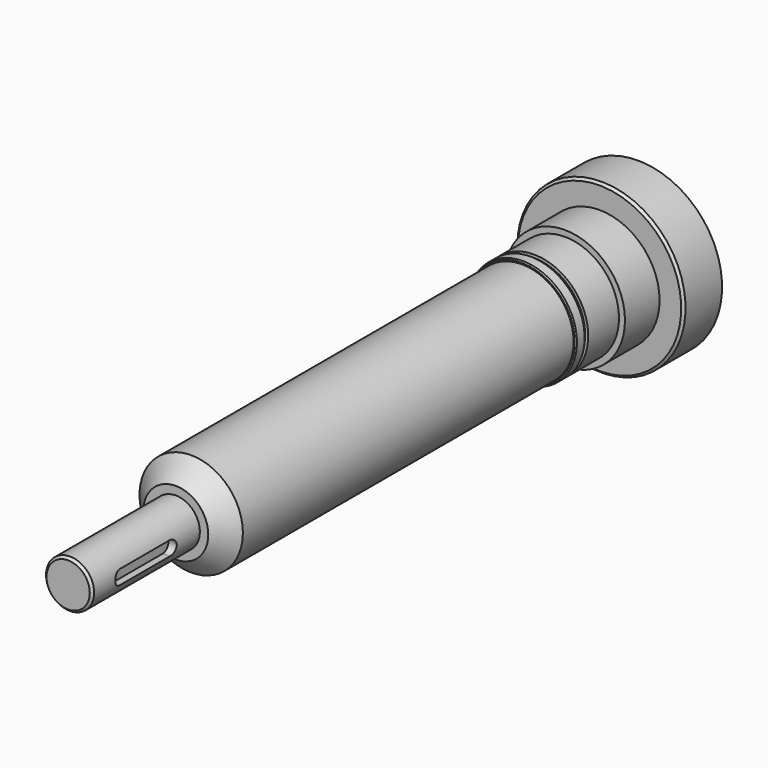
from build123d import *

# Parameters (mm, degrees)
F0_R      = 10
F1_DEPTH  = 56
F2_R      = 21.5
F3_DEPTH  = 180
F4_SIZE   = 8
F6_R      = 22.5
F7_DEPTH  = 40.35
F8_R      = 35
F9_DEPTH  = 20
F11_R     = 31.0096244967
F11_R_2   = 21.25
F12_DEPTH = 1.85
F15_DEPTH = 25
F16_SIZE  = 1
F18_SIZE  = 0.5
F17_R     = 10
F19_DEPTH = 5
F22_D     = 8.5
F22_DEPTH = 17
F22_TIP   = 2.5536576309
F23_SIZE  = 1
F25_R     = 25
F26_DEPTH = 18


with BuildPart() as f1:
    # F0 (on Front) → F1 (new body)
    with BuildSketch(Plane.XZ):
        Circle(F0_R)
    extrude(amount=F1_DEPTH)

    # F2 (on Front) → F3 (join)
    with BuildSketch(Plane.XZ):
        Circle(F2_R)
    extrude(amount=-F3_DEPTH)

    # F4
    f4_edges = [f1.edges().sort_by_distance(p)[0] for p in [
        (-21.5, 0, 0),
    ]]
    chamfer(f4_edges, length=F4_SIZE)

    # F6 (on offset) → F7 (join)
    with BuildSketch(Plane(origin=(0, 180, 0), x_dir=(-1, 0, 0), z_dir=(0, 1, 0))):
        Circle(F6_R)
    extrude(amount=F7_DEPTH)

    # F8 (on face) → F9 (join)
    with BuildSketch(Plane(origin=(0, 220.35, 0), x_dir=(-1, 0, 0), z_dir=(0, 1, 0))):
        Circle(F8_R)
    extrude(amount=F9_DEPTH)

    # F11 (on offset) → F12 (cut)
    with BuildSketch(Plane(origin=(0, 184.5, 0), x_dir=(-1, 0, 0), z_dir=(0, 1, 0))):
        Circle(F11_R)
        Circle(F11_R_2, mode=Mode.SUBTRACT)
    extrude(amount=F12_DEPTH, mode=Mode.SUBTRACT)

    # F14 (on offset) → F15 (cut)
    with BuildSketch(Plane.YZ.offset(6.5)):
        with BuildLine():
            Line((-15, 2.8761793831), (-41, 2.8761793831))
            ThreePointArc((-41, 2.8761793831), (-44, -0.1238206169), (-41, -3.1238206169))
            Line((-41, -3.1238206169), (-15, -3.1238206169))
            ThreePointArc((-15, -3.1238206169), (-12, -0.1238206169), (-15, 2.8761793831))
        make_face()
    extrude(amount=F15_DEPTH, mode=Mode.SUBTRACT)

    # F16
    f16_edges = [f1.edges().sort_by_distance(p)[0] for p in [
        (-10, -56, 0),
    ]]
    chamfer(f16_edges, length=F16_SIZE)

    # F18
    f18_edges = [f1.edges().sort_by_distance(p)[0] for p in [
        (22.5, 180, 0),
    ]]
    chamfer(f18_edges, length=F18_SIZE)

    # F17 (on face) → F19 (join)
    with BuildSketch(Plane(origin=(0, 240.35, 0), x_dir=(-1, 0, 0), z_dir=(0, 1, 0))):
        Circle(F17_R)
    extrude(amount=F19_DEPTH)

    # F22
    with Locations(Plane(origin=(0, 240.35, 0), x_dir=(-1, 0, 0), z_dir=(0, 1, 0))):
        with Locations((-12.5, 21.6506350946), (12.5, 21.6506350946), (25, 0), (12.5, -21.6506350946), (-12.5, -21.6506350946), (-25, 0)):
            Hole(F22_D / 2, depth=F22_DEPTH)
            with Locations((0, 0, -(F22_DEPTH + F22_TIP / 2))):  # 118° drill point
                Cone(0, F22_D / 2, F22_TIP, mode=Mode.SUBTRACT)

    # F23
    f23_edges = [f1.edges().sort_by_distance(p)[0] for p in [
        (35, 220.35, 0),
    ]]
    chamfer(f23_edges, length=F23_SIZE)

    # F25 (on offset) → F26 (join)
    with BuildSketch(Plane.XZ.offset(-202.35)):
        Circle(F25_R)
    extrude(amount=-F26_DEPTH)


solid = f1.part
